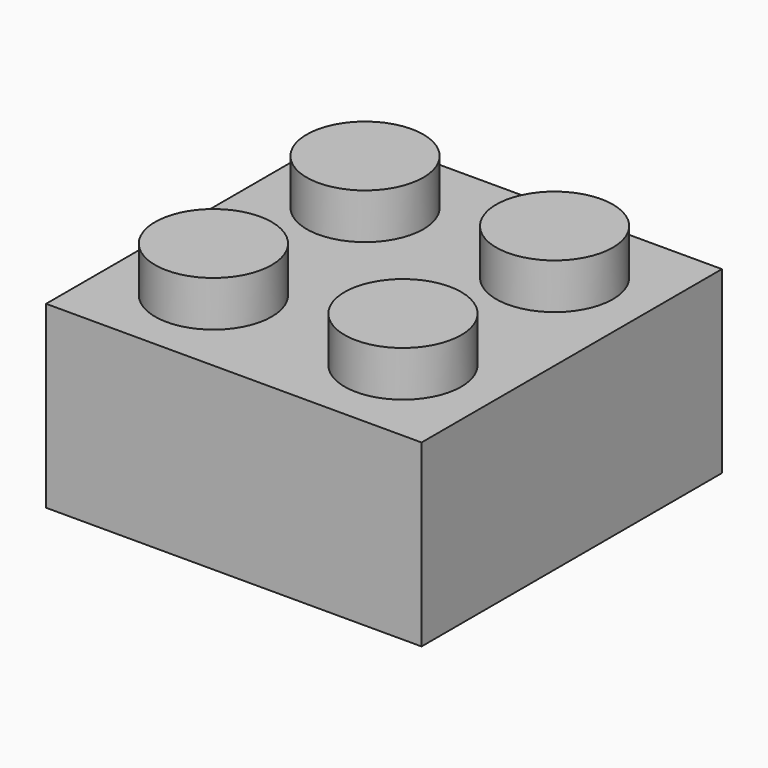
from build123d import *

# Parameters (mm, degrees)
F2_W     = 15.68
F2_H     = 15.68
F2_W_2   = 13.24
F2_H_2   = 13.24
F3_DEPTH = 5
F2_R     = 3.25
F2_R_2   = 2.25
F5_W     = 15.68
F5_H     = 15.68
F6_DEPTH = 2.5
F7_R     = 2.435
F8_DEPTH = 1.9


with BuildPart() as f3:
    # F2 (on Top) → F3 (new body)
    with BuildSketch(Plane.XY):
        Rectangle(F2_W, F2_H)
        Rectangle(F2_W_2, F2_H_2, mode=Mode.SUBTRACT)
    extrude(amount=F3_DEPTH)



with BuildPart() as f3b:
    # F2 (on Top) → F3, piece 2 (new body)
    with BuildSketch(Plane.XY):
        Circle(F2_R)
        Circle(F2_R_2, mode=Mode.SUBTRACT)
    extrude(amount=F3_DEPTH)


with BuildPart() as f3_1:
    add(f3.part)

    add(f3b.part)  # F6 merges F3b
    # F5 (on offset) → F6 (join)
    with BuildSketch(Plane.XY.offset(5)):
        Rectangle(F5_W, F5_H)
    extrude(amount=F6_DEPTH)

    # F7 (on face) → F8 (join)
    with BuildSketch(Plane.XY.offset(7.5)):
        with Locations((-3.9575, 3.9575)):
            Circle(F7_R)
        with Locations((-3.9575, -3.9575)):
            Circle(F7_R)
        with Locations((3.9575, -3.9575)):
            Circle(F7_R)
        with Locations((3.9575, 3.9575)):
            Circle(F7_R)
    extrude(amount=F8_DEPTH)


solid = f3_1.part
